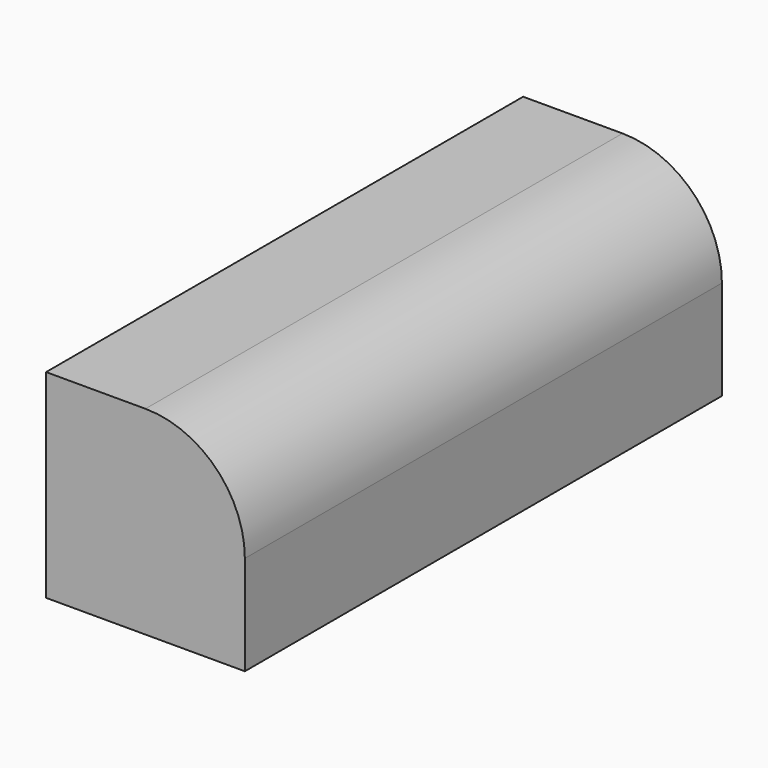
from build123d import *

# Parameters (mm, degrees)
F1_DEPTH = 300


with BuildPart() as f1:
    # F0 (on Front) → F1 (new body, symmetric)
    with BuildSketch(Plane.XZ):
        with BuildLine():
            Line((100, 0), (0, 0))
            Line((0, 0), (0, -200))
            Line((0, -200), (200, -200))
            Line((200, -200), (200, -100))
            ThreePointArc((200, -100), (170.710678, -29.289322), (100, 0))
        make_face()
    extrude(amount=F1_DEPTH, both=True)


solid = f1.part
